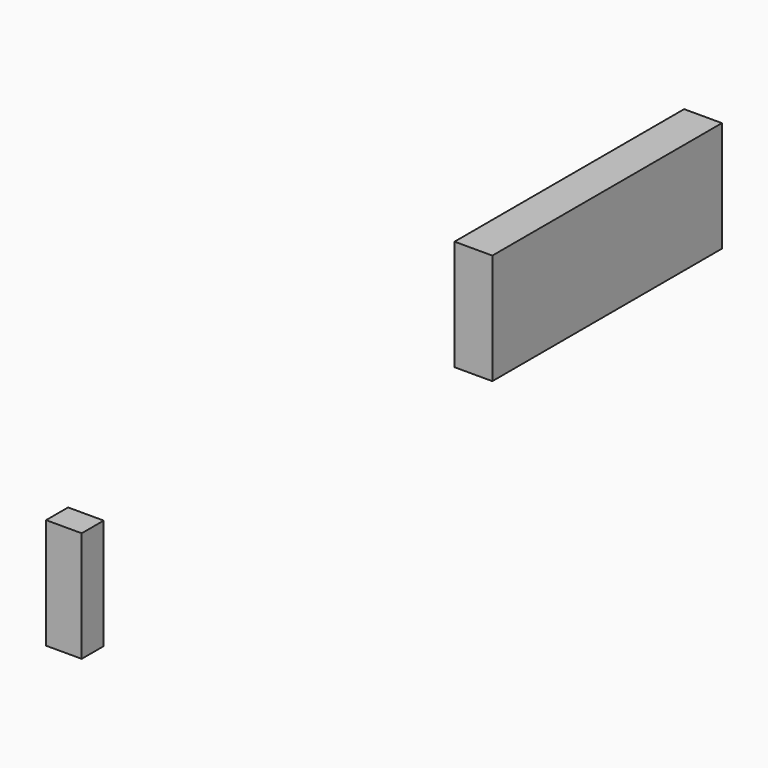
from build123d import *

# Parameters (mm, degrees)
F0_W     = 47.746036
F0_H     = 362.553716
F0_W_2   = 45.005091
F0_H_2   = 34.750625
F1_DEPTH = 139.684945


with BuildPart() as f1:
    # F0 (on Top) → F1 (new body)
    with BuildSketch(Plane.XY):
        with Locations((-78.132434, 862.842262)):
            Rectangle(F0_W, F0_H)
        with Locations((-22.502546, -17.375312)):
            Rectangle(F0_W_2, F0_H_2)
    extrude(amount=F1_DEPTH)


solid = f1.part
